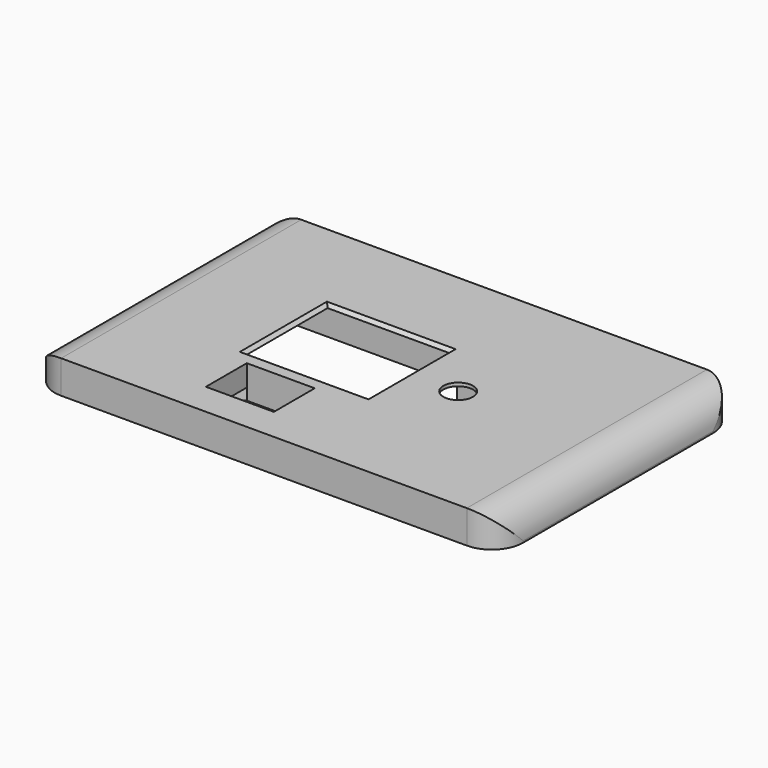
from build123d import *

# Parameters (mm, degrees)
SKETCH_W        = 142
SKETCH_H        = 91
PAD_DEPTH       = 10
FILLET_R        = 9.5
SKETCH001_R     = 4.5
SKETCH001_W     = 37
SKETCH001_H     = 31
SKETCH001_W_2   = 20.6
SKETCH001_H_2   = 15.5
POCKET_DEPTH    = 10
CHAMFER_SIZE    = 1
POCKET001_DEPTH = 3.5
SKETCH007_W     = 10
SKETCH007_H     = 12
POCKET004_DEPTH = 5
POCKET002_DEPTH = 9
SKETCH004_W     = 16
SKETCH004_H     = 4
SKETCH004_W_2   = 3
SKETCH004_H_2   = 19
PAD001_DEPTH    = 10
SKETCH006_W     = 90
SKETCH006_H     = 60
POCKET003_DEPTH = 6
FILLET001_R     = 3
SKETCH008_W     = 20
SKETCH008_H     = 2
POCKET005_DEPTH = 2
CHAMFER001_SIZE = 0.99
SKETCH009_W     = 20
SKETCH009_H     = 2
POCKET006_DEPTH = 2
CHAMFER002_SIZE = 0.99


with BuildPart() as part:
    # Sketch → Pad (new body)
    with BuildSketch(Plane.XY):
        Rectangle(SKETCH_W, SKETCH_H)
    extrude(amount=PAD_DEPTH)

    # Fillet
    fillet_edges = [part.edges().sort_by_distance(p)[0] for p in [
        (71, 45.5, 5),
        (71, 0, 10),
        (71, -45.5, 5),
        (-71, -45.5, 5),
        (-71, 0, 10),
        (-71, 45.5, 5),
    ]]
    fillet(fillet_edges, radius=FILLET_R)

    # Sketch001 (on Face5 of Fillet) → Pocket (cut)
    with BuildSketch(Plane.XY.offset(10)):
        with Locations((22.5, 0)):
            Circle(SKETCH001_R)
        with Locations((-11, 0)):
            Rectangle(SKETCH001_W, SKETCH001_H)
        with Locations((-15.3, -27.75)):
            Rectangle(SKETCH001_W_2, SKETCH001_H_2)
    extrude(amount=-POCKET_DEPTH, mode=Mode.SUBTRACT)

    # Chamfer
    chamfer_edges = [part.edges().sort_by_distance(p)[0] for p in [
        (7.5, 0, 10),
        (-11, 15.5, 10),
        (-29.5, 0, 10),
        (-11, -15.5, 10),
    ]]
    chamfer(chamfer_edges, length=CHAMFER_SIZE)

    # Sketch002 (on Face19 of Chamfer) → Pocket001 (cut)
    with BuildSketch(Plane(origin=(0, 0, 0), x_dir=(1, 0, 0), z_dir=(0, 0, -1))):
        Polygon((-25.6, 35.5), (-31.1, 32.324574), (-31.1, 23.175426), (-25.6, 20), align=None)
    extrude(amount=-POCKET001_DEPTH, mode=Mode.SUBTRACT)

    # Sketch007 (on Face19 of Pocket001) → Pocket004 (cut)
    with BuildSketch(Plane(origin=(0, 0, 0), x_dir=(1, 0, 0), z_dir=(0, 0, -1))):
        with Locations((0, 27.75)):
            Rectangle(SKETCH007_W, SKETCH007_H)
    extrude(amount=-POCKET004_DEPTH, mode=Mode.SUBTRACT)

    # Sketch003 (on Face19 of Pocket001) → Pocket002 (cut)
    with BuildSketch(Plane(origin=(0, 0, 0), x_dir=(1, 0, 0), z_dir=(0, 0, -1))):
        Polygon((-44, 17.5), (14.6, 17.5), (14.6, 9.5), (30.6, 9.5), (30.6, -9.5), (14.6, -9.5), (14.6, -17.5), (-44, -17.5), align=None)
    extrude(amount=-POCKET002_DEPTH, mode=Mode.SUBTRACT)

    # Sketch004 (on Face15 of Pocket002) → Pad001 (join)
    with BuildSketch(Plane(origin=(0, 0, 9), x_dir=(1, 0, 0), z_dir=(0, 0, -1))):
        with Locations((22.6, 11.5)):
            Rectangle(SKETCH004_W, SKETCH004_H)
        with Locations((22.6, -11.5)):
            Rectangle(SKETCH004_W, SKETCH004_H)
        with Locations((-45.5, 0)):
            Rectangle(SKETCH004_W_2, SKETCH004_H_2)
    extrude(amount=PAD001_DEPTH)

    # Sketch006 → Pocket003 (cut)
    with BuildSketch(Plane(origin=(0, 0, 0), x_dir=(1, 0, 0), z_dir=(0, 0, -1))):
        with BuildLine():
            Line((-61, 43.5), (61, 43.5))
            ThreePointArc((69, 35.5), (66.656854, 41.156854), (61, 43.5))
            Line((69, 35.5), (69, -35.5))
            ThreePointArc((61, -43.5), (66.656854, -41.156854), (69, -35.5))
            Line((61, -43.5), (-61, -43.5))
            ThreePointArc((-69, -35.5), (-66.656854, -41.156854), (-61, -43.5))
            Line((-69, -35.5), (-69, 35.5))
            ThreePointArc((-61, 43.5), (-66.656854, 41.156854), (-69, 35.5))
        make_face()
        with Locations((-6, 7)):
            Rectangle(SKETCH006_W, SKETCH006_H, mode=Mode.SUBTRACT)
    extrude(amount=-POCKET003_DEPTH, mode=Mode.SUBTRACT)

    # Fillet001
    fillet001_edges = [part.edges().sort_by_distance(p)[0] for p in [
        (0, -43.5, 6),
        (-66.656854, -41.156854, 6),
        (-69, 0, 6),
        (66.656854, -41.156854, 6),
        (-66.656854, 41.156854, 6),
        (0, 43.5, 6),
        (66.656854, 41.156854, 6),
        (69, 0, 6),
    ]]
    fillet(fillet001_edges, radius=FILLET001_R)

    # Sketch008 → Pocket005 (cut)
    with BuildSketch(Plane.YZ.offset(39)):
        with Locations((-7, 2)):
            Rectangle(SKETCH008_W, SKETCH008_H)
    extrude(amount=-POCKET005_DEPTH, mode=Mode.SUBTRACT)

    # Chamfer001
    chamfer001_edges = [part.edges().sort_by_distance(p)[0] for p in [
        (37, -7, 1),
        (37, -7, 3),
    ]]
    chamfer(chamfer001_edges, length=CHAMFER001_SIZE)

    # Sketch009 (on Face13 of Chamfer001) → Pocket006 (cut)
    with BuildSketch(Plane(origin=(-51, 0, 0), x_dir=(0, -1, 0), z_dir=(-1, 0, 0))):
        with Locations((7, 2)):
            Rectangle(SKETCH009_W, SKETCH009_H)
    extrude(amount=-POCKET006_DEPTH, mode=Mode.SUBTRACT)

    # Chamfer002
    chamfer002_edges = [part.edges().sort_by_distance(p)[0] for p in [
        (-49, -7, 3),
        (-49, -7, 1),
    ]]
    chamfer(chamfer002_edges, length=CHAMFER002_SIZE)


solid = part.part
